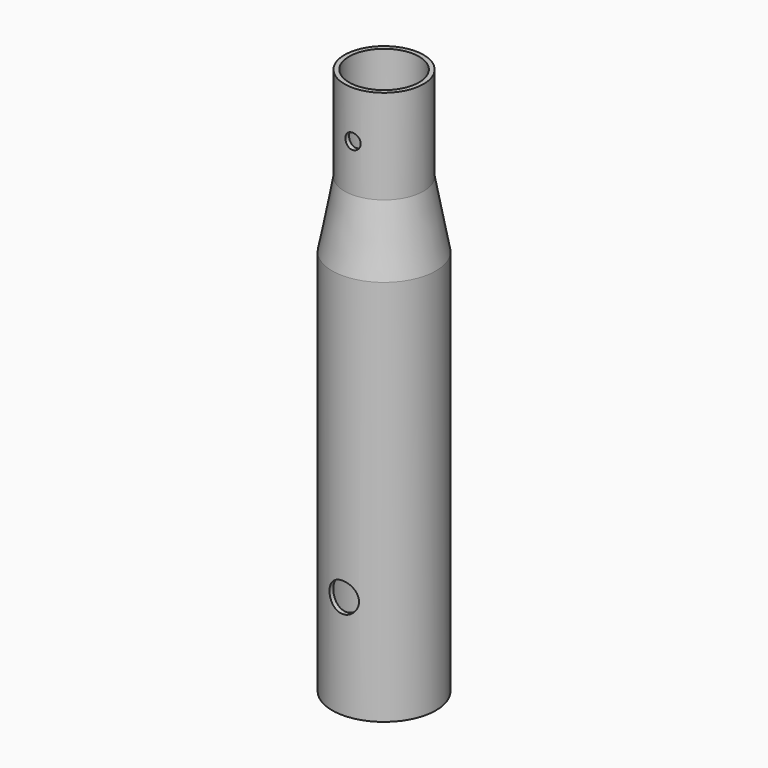
from build123d import *

# Parameters (mm, degrees)
F0_R      = 13.2969
F1_DEPTH  = 31.75
F3_R      = 17.4625
F4_DEPTH  = 130.175
F4_FACE_R = 17.4625
F1_FACE_R = 13.2969
F6_T      = -1.524
F12_D     = 9.92124
F12_DEPTH = 6.35
F12_TIP   = 2.980641204
F13_D     = 5.159375
F13_DEPTH = 6.35
F13_TIP   = 1.5500326281


with BuildPart() as f1:
    # F0 (on Top) → F1 (new body)
    with BuildSketch(Plane.XY):
        Circle(F0_R)
    extrude(amount=-F1_DEPTH)



with BuildPart() as f4:
    # F3 (on offset) → F4 (new body)
    with BuildSketch(Plane.XY.offset(-184.15)):
        Circle(F3_R)
    extrude(amount=F4_DEPTH)


with BuildPart() as f1_1:
    add(f1.part)

    add(f4.part)  # F5 merges F4
    # F4_face (on face) → F5 section 0
    with BuildSketch(Plane.XY.offset(-53.975)):
        Circle(F4_FACE_R)
    # F1_face (on face) → F5 section 1
    with BuildSketch(Plane(origin=(0, 0, -31.75), x_dir=(1, 0, 0), z_dir=(0, 0, -1))):
        Circle(F1_FACE_R)
    loft()

    # F6
    f6_openings = [f1_1.faces().sort_by_distance(p)[0] for p in [
        (0, 0, 0),
        (0, 0, -184.15),
    ]]
    offset(amount=F6_T, openings=f6_openings, kind=Kind.INTERSECTION)

    # F12
    with Locations(Plane.XZ.offset(17.4625)):
        with Locations((0, -149.225)):
            Hole(F12_D / 2, depth=F12_DEPTH)
            with Locations((0, 0, -(F12_DEPTH + F12_TIP / 2))):  # 118° drill point
                Cone(0, F12_D / 2, F12_TIP, mode=Mode.SUBTRACT)

    # F13
    with Locations(Plane.XZ.offset(13.2969)):
        with Locations((0, -15.875)):
            Hole(F13_D / 2, depth=F13_DEPTH)
            with Locations((0, 0, -(F13_DEPTH + F13_TIP / 2))):  # 118° drill point
                Cone(0, F13_D / 2, F13_TIP, mode=Mode.SUBTRACT)


solid = f1_1.part
